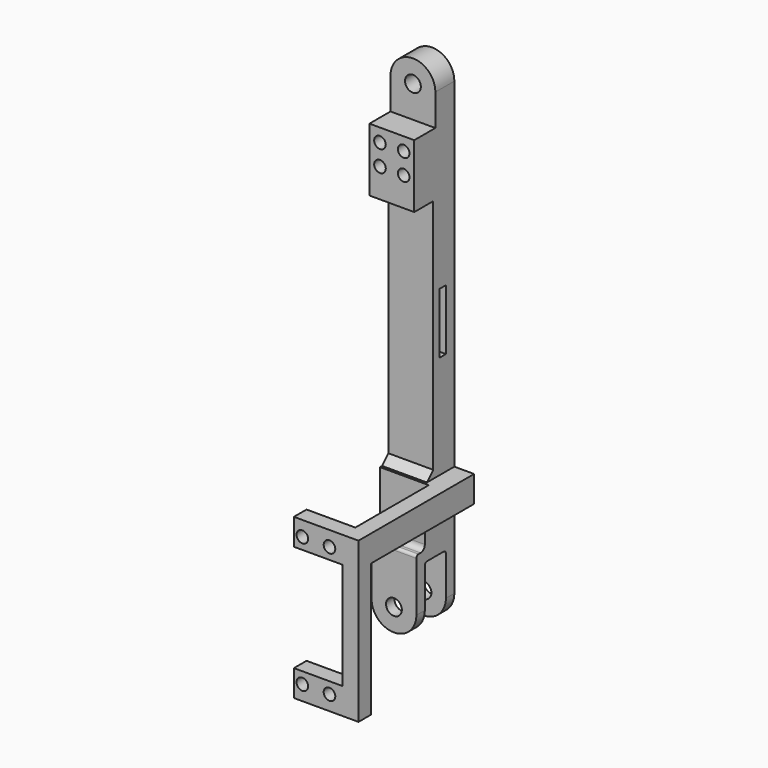
from build123d import *

# Parameters (mm, degrees)
CYLINDER044_R                 = 2.2
CYLINDER044_DEPTH             = 26
CYLINDER044_ROLL_ANGLE        = -90
ARRAY011_X_COUNT              = 2
ARRAY011_X_PITCH              = 8
ARRAY011_Z_COUNT              = 2
ARRAY011_Z_PITCH              = 9
BOX034_W                      = 24
BOX034_H                      = 10
BOX034_DEPTH                  = 17
SKETCH030_R                   = 3
PAD030_DEPTH                  = 9
BOX035_W                      = 35
BOX035_H                      = 15
BOX035_DEPTH                  = 20
BOX032_W                      = 23
BOX032_H                      = 3
BOX032_DEPTH                  = 20
SKETCH024_R                   = 3
PAD024_DEPTH                  = 4
SKETCH025_R                   = 3
PAD025_DEPTH                  = 4
BOX029_W                      = 20
BOX029_H                      = 17
BOX029_DEPTH                  = 10
FILLET009_R                   = 1
FILLET009_ROLL_ANGLE          = 90
FILLET010_1_R                 = 2
FILLET010_2_R                 = 1
BOX028_W                      = 167
BOX028_H                      = 10
BOX028_DEPTH                  = 17
CYLINDER040_R                 = 2.2
CYLINDER040_DEPTH             = 18
CYLINDER040_ROLL_ANGLE        = -90
ARRAY008_X_COUNT              = 2
ARRAY008_X_PITCH              = 49.2
ARRAY008_Z_COUNT              = 2
ARRAY008_Z_PITCH              = 10.3
PAD029_DEPTH                  = 6
PAD028_DEPTH                  = 10
CHAMFER003_SIZE               = 3
PART_MIRRORING005_PITCH_ANGLE = 90


with BuildPart() as obj1:
    # Cylinder044 → Cylinder044 (new body)
    with BuildSketch(Plane.XY):
        Circle(CYLINDER044_R)
    extrude(amount=CYLINDER044_DEPTH)


with BuildPart() as obj1_1:
    # Cylinder044 roll: moved
    add(obj1.part.rotate(Axis((0, 0, 0), (1, 0, 0)), CYLINDER044_ROLL_ANGLE))


with BuildPart() as obj1_2:
    # Cylinder044 placement: moved
    add(obj1_1.part.moved(Location((202, 0, 4))))

    # Array011 X: obj1_2


with BuildPart() as obj1_3:
    add(obj1_2.part)
    with Locations(*[(i * ARRAY011_X_PITCH, 0, 0) for i in range(1, ARRAY011_X_COUNT)]):
        add(obj1_2.part)

    # Array011 Z: obj1_2


with BuildPart() as obj1_4:
    add(obj1_3.part)
    with Locations(*[(0, 0, i * ARRAY011_Z_PITCH) for i in range(1, ARRAY011_Z_COUNT)]):
        add(obj1_3.part)


with BuildPart() as obj1_5:
    # Array011 placement: moved
    add(obj1_4.part.moved(Location((-171, -5, 0))))


with BuildPart() as obj2:
    # Box034 → Box034 (new body)
    with BuildSketch(Plane(origin=(26, 6, 0), x_dir=(1, 0, 0), z_dir=(0, 0, 1))):
        with Locations((12, 5)):
            Rectangle(BOX034_W, BOX034_H)
    extrude(amount=BOX034_DEPTH)


with BuildPart() as obj3:
    # Sketch030 → Pad030 (new body)
    with BuildSketch(Plane(origin=(50, 6, 0), x_dir=(1, 0, 0), z_dir=(0, -1, 0))):
        with BuildLine():
            Line((0, 17), (-36, 17))
            ThreePointArc((-36, 17), (-44.500015, 8.5), (-36, 0))
            Line((-36, 0), (0, 0))
            Line((0, 0), (0, 17))
        make_face()
        with Locations((-36.000015, 8.5)):
            Circle(SKETCH030_R, mode=Mode.SUBTRACT)
    extrude(amount=PAD030_DEPTH)


with BuildPart() as obj4:
    # Box035 → Box035 (new body)
    with BuildSketch(Plane(origin=(-2, -5, 0), x_dir=(1, 0, 0), z_dir=(0, 0, 1))):
        with Locations((17.5, 7.5)):
            Rectangle(BOX035_W, BOX035_H)
    extrude(amount=BOX035_DEPTH)


with BuildPart() as obj5:
    # Box032 → Box032 (new body)
    with BuildSketch(Plane(origin=(80.5, 1, 0), x_dir=(1, 0, 0), z_dir=(0, 0, 1))):
        with Locations((11.5, 1.5)):
            Rectangle(BOX032_W, BOX032_H)
    extrude(amount=BOX032_DEPTH)


with BuildPart() as obj6:
    # Sketch024 → Pad024 (new body)
    with BuildSketch(Plane.XY):
        with BuildLine():
            Line((0, 17), (20, 17))
            ThreePointArc((20, 0), (28.500019, 8.5), (20, 17))
            Line((20, 0), (0, 0))
            Line((0, 0), (0, 17))
        make_face()
        with Locations((20.000019, 8.5)):
            Circle(SKETCH024_R, mode=Mode.SUBTRACT)
    extrude(amount=PAD024_DEPTH)


with BuildPart() as obj7:
    # Sketch025 → Pad025 (new body)
    with BuildSketch(Plane.XY.offset(14)):
        with BuildLine():
            Line((0, 17), (20, 17))
            ThreePointArc((20, 0), (28.500019, 8.5), (20, 17))
            Line((20, 0), (0, 0))
            Line((0, 0), (0, 17))
        make_face()
        with Locations((20.000019, 8.5)):
            Circle(SKETCH025_R, mode=Mode.SUBTRACT)
    extrude(amount=PAD025_DEPTH)


with BuildPart() as obj8:
    # Box029 → Box029 (new body)
    with BuildSketch(Plane(origin=(-16, 0, 4), x_dir=(1, 0, 0), z_dir=(0, 0, 1))):
        with Locations((10, 8.5)):
            Rectangle(BOX029_W, BOX029_H)
    extrude(amount=BOX029_DEPTH)

    # Fusion009003028: union obj6, obj7
    add(obj6.part)
    add(obj7.part)

    # Fillet009
    fillet009_edges = [obj8.edges().sort_by_distance(p)[0] for p in [
        (0, 8.5, 18),
        (-16, 0, 9),
        (-16, 17, 9),
        (0, 8.5, 0),
    ]]
    fillet(fillet009_edges, radius=FILLET009_R)


with BuildPart() as obj8_1:
    # Fillet009 roll: moved
    add(obj8.part.rotate(Axis((0, 0, 0), (1, 0, 0)), FILLET009_ROLL_ANGLE))


with BuildPart() as obj8_2:
    # Fillet009 placement: moved
    add(obj8_1.part.moved(Location((16, 15, 0))))

    # Fillet010 1
    fillet010_1_edges = [obj8_2.edges().sort_by_distance(p)[0] for p in [
        (16, 1, 8.5),
        (16, 11, 8.5),
    ]]
    fillet(fillet010_1_edges, radius=FILLET010_1_R)

    # Fillet010 2
    fillet010_2_edges = [obj8_2.edges().sort_by_distance(p)[0] for p in [
        (20, 1, 8.5),
        (20, 11, 8.5),
    ]]
    fillet(fillet010_2_edges, radius=FILLET010_2_R)


with BuildPart() as obj8_3:
    # Fillet010 placement: moved
    add(obj8_2.part.moved(Location((149, 0, 0))))


with BuildPart() as obj9:
    # Box028 → Box028 (new body)
    with BuildSketch(Plane(origin=(0, -3, 0), x_dir=(1, 0, 0), z_dir=(0, 0, 1))):
        with Locations((83.5, 5)):
            Rectangle(BOX028_W, BOX028_H)
    extrude(amount=BOX028_DEPTH)

    # Fusion009003029: union obj8
    add(obj8_3.part)

    # Cut023: cut obj5
    add(obj5.part, mode=Mode.SUBTRACT)


with BuildPart() as obj10:
    # Cylinder040 → Cylinder040 (new body)
    with BuildSketch(Plane.XY):
        Circle(CYLINDER040_R)
    extrude(amount=CYLINDER040_DEPTH)


with BuildPart() as obj10_1:
    # Cylinder040 roll: moved
    add(obj10.part.rotate(Axis((0, 0, 0), (1, 0, 0)), CYLINDER040_ROLL_ANGLE))


with BuildPart() as obj10_2:
    # Cylinder040 placement: moved
    add(obj10_1.part.moved(Location((150.075, 41, 13.5))))

    # Array008 X: obj10_2


with BuildPart() as obj10_3:
    add(obj10_2.part)
    with Locations(*[(i * ARRAY008_X_PITCH, 0, 0) for i in range(1, ARRAY008_X_COUNT)]):
        add(obj10_2.part)

    # Array008 Z: obj10_2


with BuildPart() as obj10_4:
    add(obj10_3.part)
    with Locations(*[(0, 0, -i * ARRAY008_Z_PITCH) for i in range(1, ARRAY008_Z_COUNT)]):
        add(obj10_3.part)


with BuildPart() as obj11:
    # Sketch029 → Pad029 (new body)
    with BuildSketch(Plane(origin=(10, 54.8, 0), x_dir=(1, 0, 0), z_dir=(0, -1, 0))):
        Polygon((0, 18.5), (0, 24.5), (50.5, 24.5), (50.5, 0), (40.5, 0), (40.5, 18.5), align=None)
    extrude(amount=PAD029_DEPTH)


with BuildPart() as obj12:
    # Sketch028 → Pad028 (new body)
    with BuildSketch(Plane.YZ):
        Polygon((14, 0), (0, 0), (0, 24.5), (54.8, 24.5), (54.8, 0), (48.8, 0), (48.8, 18.5), (14, 18.5), align=None)
    extrude(amount=PAD028_DEPTH)

    # Fusion009003033: union obj11
    add(obj11.part)


with BuildPart() as obj12_1:
    # Fusion009003033 placement: moved
    add(obj12.part.moved(Location((144.425, -3, 0))))

    # Cut022: cut obj10
    add(obj10_4.part, mode=Mode.SUBTRACT)


with BuildPart() as obj12_2:
    # Cut022 placement: moved
    add(obj12_1.part.moved(Location((-1.725, 0, 0))))

    # Fusion009003034: union obj9
    add(obj9.part)

    # Chamfer003
    chamfer003_edges = [obj12_2.edges().sort_by_distance(p)[0] for p in [
        (142.7, 7, 8.5),
    ]]
    chamfer(chamfer003_edges, length=CHAMFER003_SIZE)

    # Cut027: cut obj4
    add(obj4.part, mode=Mode.SUBTRACT)

    # Fusion009003036: union obj3
    add(obj3.part)

    # Fusion009003037: union obj2
    add(obj2.part)

    # Cut028: cut obj1
    add(obj1_5.part, mode=Mode.SUBTRACT)


with BuildPart() as part_mirroring005:
    # Part__Mirroring005: instance of obj12
    add(obj12_2.part.mirror(Plane(origin=(0, 0, 0), x_dir=(1, 0, 0), z_dir=(0, 1, 0))))


with BuildPart() as part_mirroring005_1:
    # Part__Mirroring005 pitch: moved
    add(part_mirroring005.part.rotate(Axis((0, 0, 0), (0, 1, 0)), PART_MIRRORING005_PITCH_ANGLE))


with BuildPart() as part_mirroring005_2:
    # Part__Mirroring005 placement: moved
    add(part_mirroring005_1.part.moved(Location((359, -63, 326))))


solid = part_mirroring005_2.part
